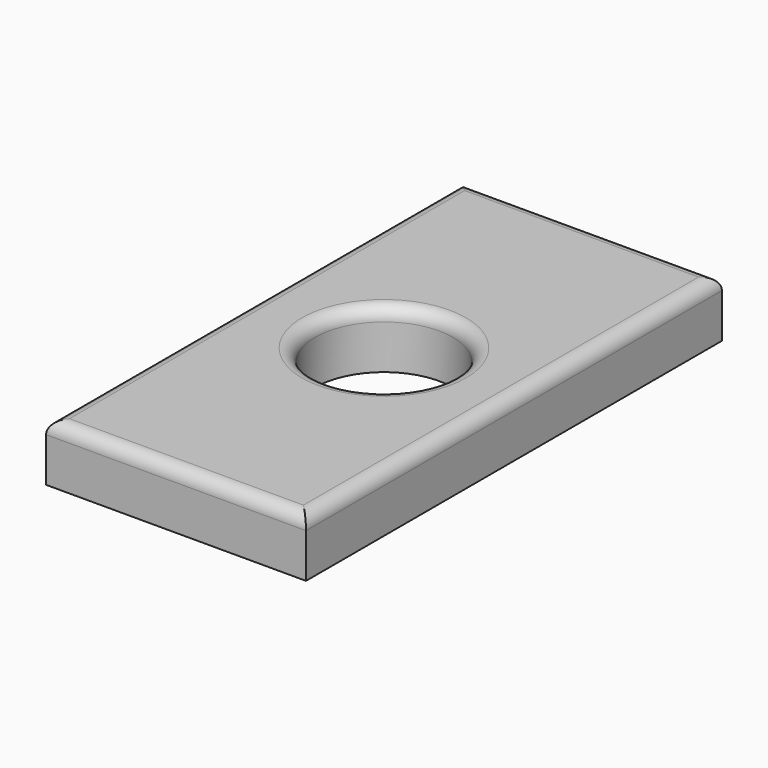
from build123d import *

# Parameters (mm, degrees)
F0_W     = 10
F0_H     = 20
F0_R     = 2.65
F1_DEPTH = 2.2
F2_R     = 0.5


with BuildPart() as f1:
    # F0 (on Top) → F1 (new body)
    with BuildSketch(Plane.XY):
        Rectangle(F0_W, F0_H)
        Circle(F0_R, mode=Mode.SUBTRACT)
    extrude(amount=F1_DEPTH)

    # F2
    f2_edges = [f1.edges().sort_by_distance(p)[0] for p in [
        (-2.65, 0, 2.2),
        (5, 0, 2.2),
        (0, 10, 2.2),
        (0, -10, 2.2),
        (-5, 0, 2.2),
    ]]
    fillet(f2_edges, radius=F2_R)


solid = f1.part
